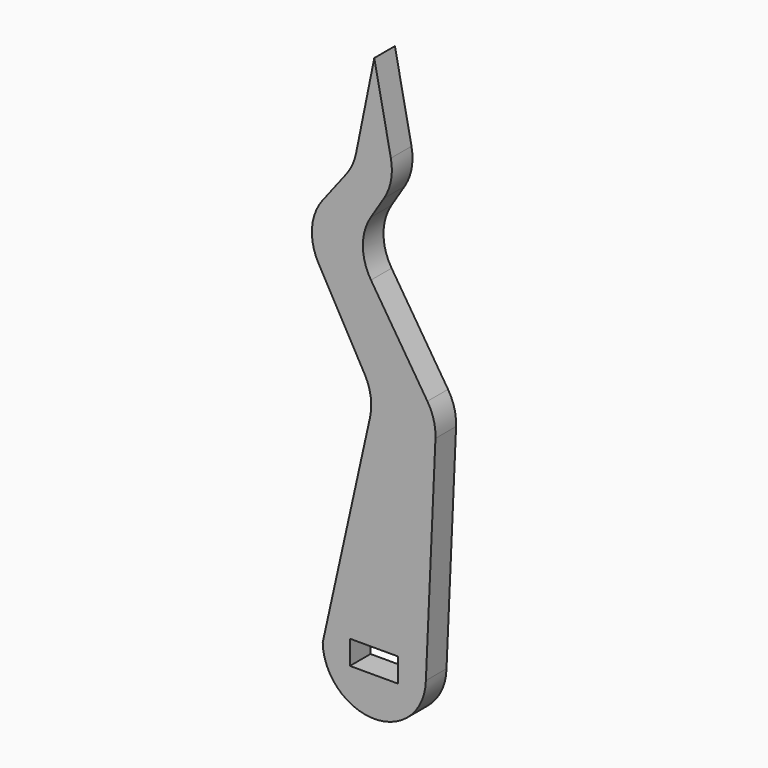
from build123d import *

# Parameters (mm, degrees)
F0_W     = 5.95
F0_H     = 2.95
F1_DEPTH = 3.175
F2_R     = 6.35


with BuildPart() as f1:
    # F0 (on Front) → F1 (new body)
    with BuildSketch(Plane.XZ):
        with BuildLine():
            Line((0, 28.642999), (-6.35, 0))
            ThreePointArc((-6.35, 0), (0, -6.217982), (6.35, 0))
            Line((6.35, 0), (7.62, 28.642999))
            Line((7.62, 28.642999), (-2.570709, 44.594768))
            Line((-2.570709, 44.594768), (2.537907, 52.743887))
            Line((2.537907, 52.743887), (0, 65.412782))
            Line((0, 65.412782), (-2.54, 52.88969))
            Line((-2.54, 52.88969), (-8.920709, 44.594768))
            Line((-8.920709, 44.594768), (0, 28.642999))
        make_face()
        with Locations((-0.025, 0.025)):
            Rectangle(F0_W, F0_H, mode=Mode.SUBTRACT)
    extrude(amount=F1_DEPTH)

    # F2
    f2_edges = [f1.edges().sort_by_distance(p)[0] for p in [
        (2.537907, -1.5875, 52.743887),
        (-2.570709, -1.5875, 44.594768),
        (7.62, -1.5875, 28.642999),
        (0, -1.5875, 28.642999),
        (-8.920709, -1.5875, 44.594768),
        (-2.54, -1.5875, 52.88969),
    ]]
    fillet(f2_edges, radius=F2_R)


solid = f1.part
